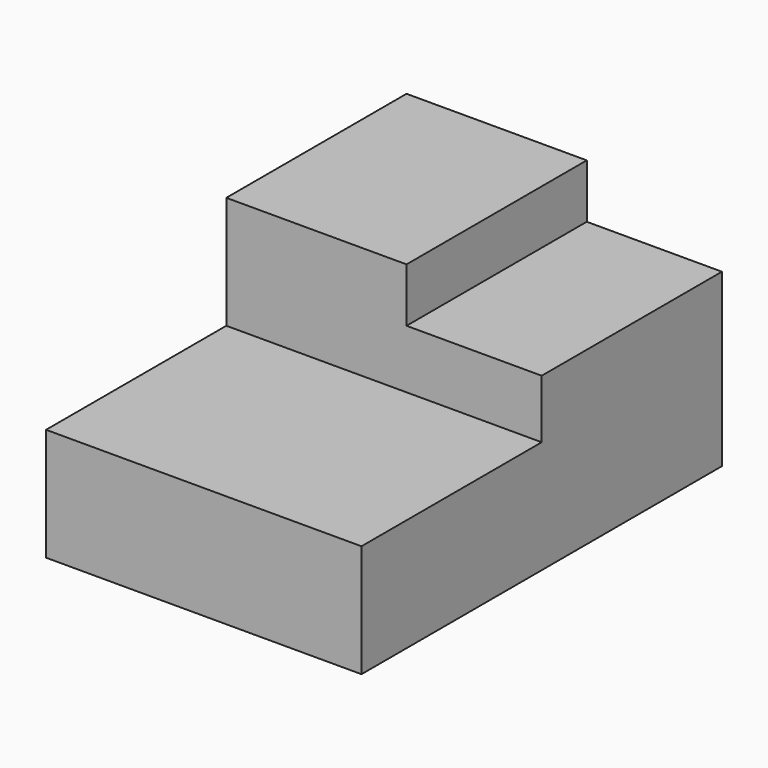
from build123d import *

# Parameters (mm, degrees)
F1_DEPTH = 635
F0_W     = 762
F0_H     = 1270
F2_DEPTH = 965.2
F0_W_2   = 1016
F3_DEPTH = 1270


with BuildPart() as f1:
    # F0 (on Top) → F1 (new body)
    with BuildSketch(Plane.XY):
        Polygon((-66.719301, 1208.596975), (-66.719301, -61.403025), (1711.280699, -61.403025), (1711.280699, 1208.596975), (949.280699, 1208.596975), align=None)
    extrude(amount=F1_DEPTH)

    # F0 (on Top) → F2 (join)
    with BuildSketch(Plane.XY):
        with Locations((1330.280699, 1843.596975)):
            Rectangle(F0_W, F0_H)
    extrude(amount=F2_DEPTH)

    # F0 (on Top) → F3 (join)
    with BuildSketch(Plane.XY):
        with Locations((441.280699, 1843.596975)):
            Rectangle(F0_W_2, F0_H)
    extrude(amount=F3_DEPTH)


solid = f1.part
